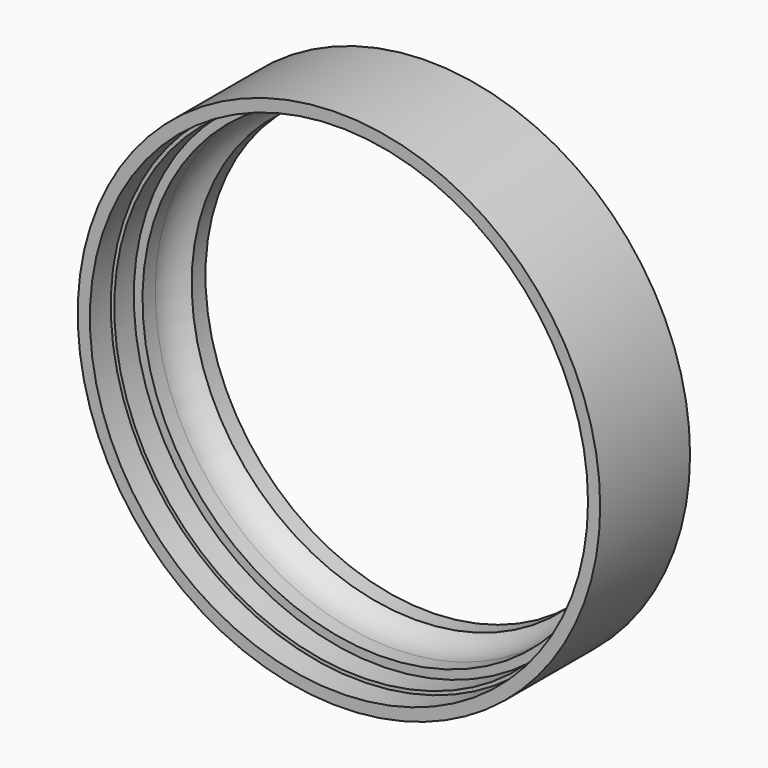
from build123d import *

# Parameters (mm, degrees)
F0_R     = 15
F0_R_2   = 12.825
F1_DEPTH = 6.45
F2_R     = 14.3
F3_DEPTH = 1.5
F4_R     = 14.1
F5_DEPTH = 1.4


with BuildPart() as f1:
    # F0 (on Front) → F1 (new body)
    with BuildSketch(Plane.XZ):
        Circle(F0_R)
        Circle(F0_R_2, mode=Mode.SUBTRACT)
    extrude(amount=F1_DEPTH)

    # F2 (on face) → F3 (cut)
    with BuildSketch(Plane.XZ.offset(6.45)):
        Circle(F2_R)
    extrude(amount=-F3_DEPTH, mode=Mode.SUBTRACT)

    # F4 (on face) → F5 (cut)
    with BuildSketch(Plane.XZ.offset(4.95)):
        Circle(F4_R)
    extrude(amount=-F5_DEPTH, mode=Mode.SUBTRACT)

    # F6 (on Right) → F7 (revolve, cut)
    with BuildSketch(Plane.YZ):
        with BuildLine():
            ThreePointArc((-2.634126, -13.6), (-1.125071, -12.974929), (-0.5, -11.465874))
            Line((-0.5, -11.465874), (-0.5, 0))
            Line((-0.5, 0), (-3.55, 0))
            Line((-3.55, 0), (-3.55, -13.6))
            Line((-3.55, -13.6), (-2.634126, -13.6))
        make_face()
    revolve(axis=Axis((0, -2.025, 0), (0, 1, 0)), mode=Mode.SUBTRACT)


solid = f1.part
